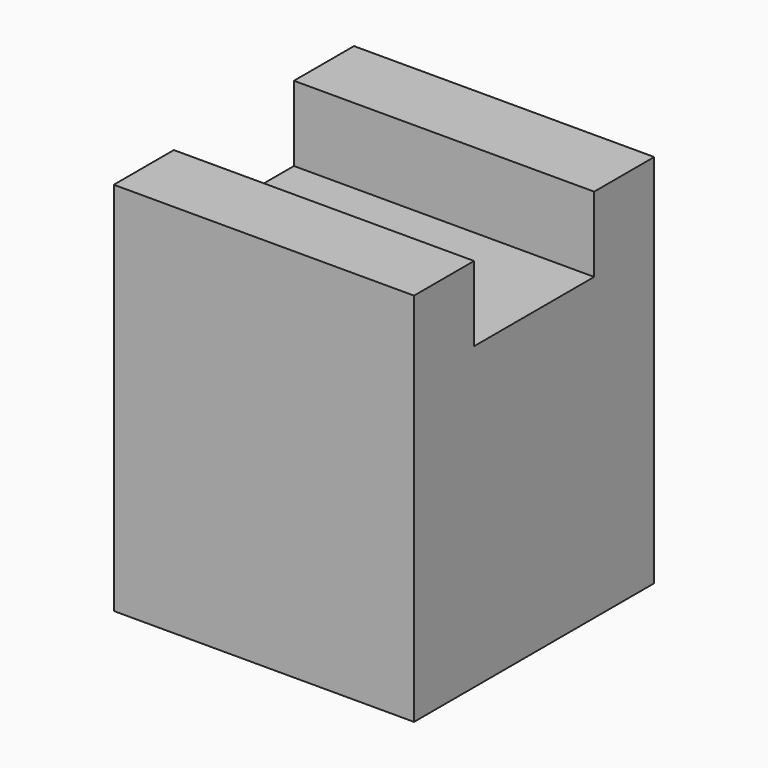
from build123d import *

# Parameters (mm, degrees)
F2_DEPTH = 12.7
F3_DEPTH = 12.7


with BuildPart() as f2:
    # F0 (on Right) → F2 (new body)
    with BuildSketch(Plane.YZ):
        Polygon((-12.7, 31.75), (-12.7, 0), (12.7, 0), (12.7, 31.75), (6.35, 31.75), (6.35, 25.4), (-6.35, 25.4), (-6.35, 31.75), align=None)
    extrude(amount=F2_DEPTH)

    # F1 (on Right) → F3 (join)
    with BuildSketch(Plane.YZ):
        Polygon((-12.7, 31.75), (-12.7, 0), (12.7, 0), (12.7, 31.75), (6.35, 31.75), (6.35, 25.4), (-6.35, 25.4), (-6.35, 31.75), align=None)
    extrude(amount=-F3_DEPTH)


solid = f2.part
